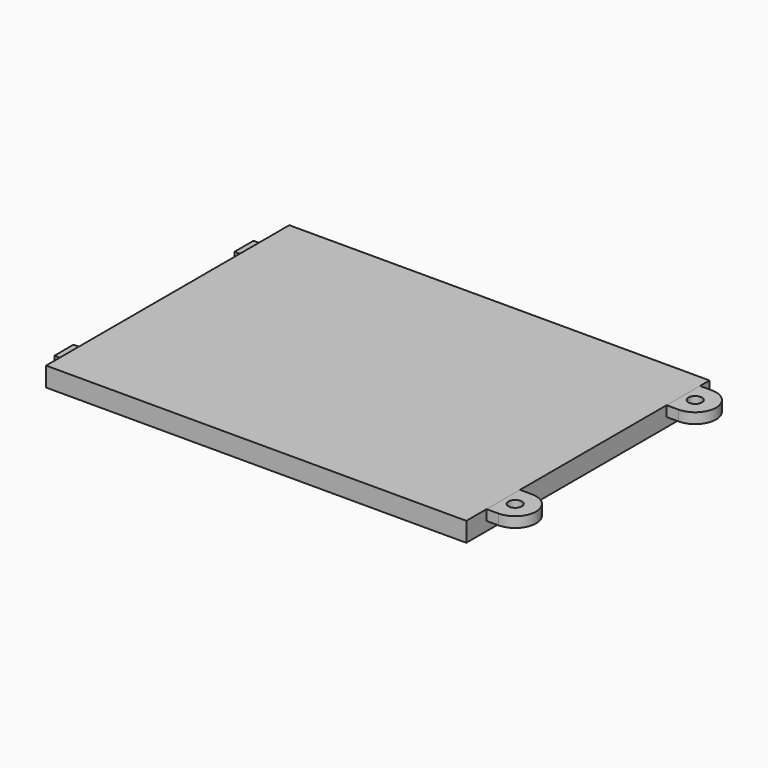
from build123d import *

# Parameters (mm, degrees)
F0_W     = 71.628
F0_H     = 51.816
F1_DEPTH = 3.302
F2_R     = 1.143
F3_DEPTH = 1.778
F4_W     = 3.048
F4_H     = 4.064
F5_DEPTH = 3.302
F6_W     = 3.048
F6_H     = 1.778
F7_DEPTH = 101.6


with BuildPart() as f1:
    # F0 (on Top) → F1 (new body)
    with BuildSketch(Plane.XY):
        with Locations((-35.814, -25.908)):
            Rectangle(F0_W, F0_H)
    extrude(amount=F1_DEPTH)


with BuildPart() as f3:
    # F2 (on face) → F3 (new body)
    with BuildSketch(Plane.XY.offset(3.302)):
        with BuildLine():
            Line((2.032, -2.032), (0, -2.032))
            Line((0, -2.032), (0, -9.144))
            Line((0, -9.144), (2.032, -9.144))
            ThreePointArc((2.032, -9.144), (5.588, -5.588), (2.032, -2.032))
        make_face()
        with Locations((2.032, -5.588)):
            Circle(F2_R, mode=Mode.SUBTRACT)
        with BuildLine():
            ThreePointArc((2.032, -47.498), (5.588, -43.942), (2.032, -40.386))
            Line((2.032, -40.386), (0, -40.386))
            Line((0, -40.386), (0, -47.498))
            Line((0, -47.498), (2.032, -47.498))
        make_face()
        with Locations((2.032, -43.942)):
            Circle(F2_R, mode=Mode.SUBTRACT)
    extrude(amount=-F3_DEPTH)


with BuildPart() as f5:
    # F4 (on face) → F5 (new body)
    with BuildSketch(Plane.XY.offset(3.302)):
        with Locations((-73.152, -5.842)):
            Rectangle(F4_W, F4_H)
        with Locations((-73.152, -44.196)):
            Rectangle(F4_W, F4_H)
    extrude(amount=-F5_DEPTH)

    # F6 (on face) → F7 (cut)
    with BuildSketch(Plane.XZ.offset(46.228)):
        with Locations((-73.152, 2.413)):
            Rectangle(F6_W, F6_H)
    extrude(amount=-F7_DEPTH, mode=Mode.SUBTRACT)


solid = Compound([f1.part, f3.part, f5.part])
